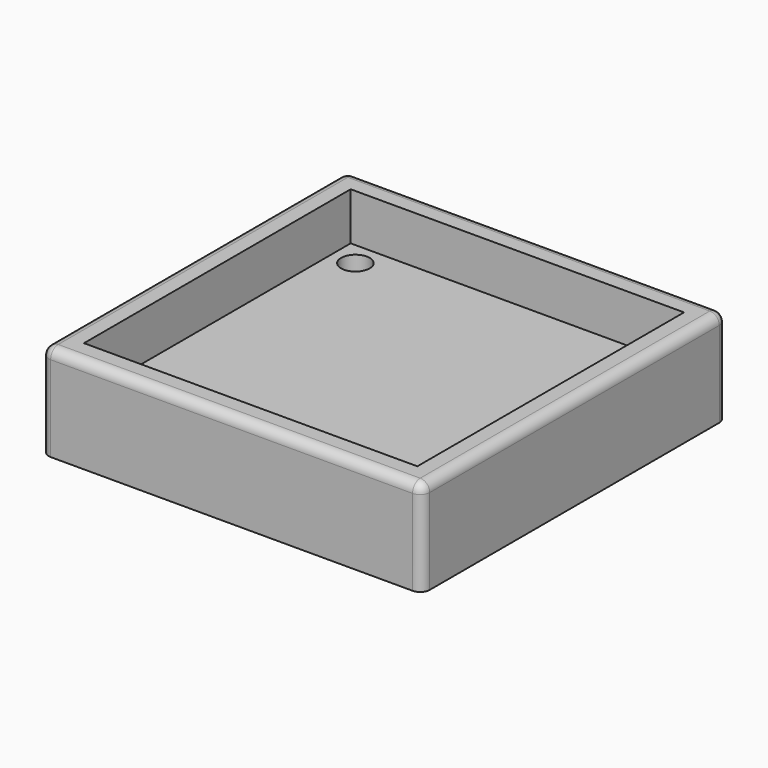
from build123d import *

# Parameters (mm, degrees)
SKETCH_W     = 40
SKETCH_H     = 40
PAD_DEPTH    = 10
SKETCH001_W  = 35
SKETCH001_H  = 35
POCKET_DEPTH = 5
FILLET_R     = 1
FILLET001_R  = 1
FILLET002_R  = 1
FILLET003_R  = 1
FILLET004_R  = 1
SKETCH002_R  = 1.5
HOLE_DEPTH   = 25


with BuildPart() as part:
    # Sketch → Pad (new body)
    with BuildSketch(Plane.XY):
        Rectangle(SKETCH_W, SKETCH_H)
    extrude(amount=PAD_DEPTH)

    # Sketch001 (on Face6 of Pad) → Pocket (cut)
    with BuildSketch(Plane.XY.offset(10)):
        Rectangle(SKETCH001_W, SKETCH001_H)
    extrude(amount=-POCKET_DEPTH, mode=Mode.SUBTRACT)

    # Fillet
    fillet_edges = [part.edges().sort_by_distance(p)[0] for p in [
        (-20, -20, 5),
    ]]
    fillet(fillet_edges, radius=FILLET_R)

    # Fillet001
    fillet001_edges = [part.edges().sort_by_distance(p)[0] for p in [
        (20, -20, 5),
    ]]
    fillet(fillet001_edges, radius=FILLET001_R)

    # Fillet002
    fillet002_edges = [part.edges().sort_by_distance(p)[0] for p in [
        (20, 20, 5),
    ]]
    fillet(fillet002_edges, radius=FILLET002_R)

    # Fillet003
    fillet003_edges = [part.edges().sort_by_distance(p)[0] for p in [
        (-20, 20, 5),
    ]]
    fillet(fillet003_edges, radius=FILLET003_R)

    # Fillet004
    fillet004_edges = [part.edges().sort_by_distance(p)[0] for p in [
        (-20, 0, 10),
    ]]
    fillet(fillet004_edges, radius=FILLET004_R)

    # Sketch002 (on Face23 of Fillet004) → Hole (cut)
    with BuildSketch(Plane.XY.offset(5)):
        with Locations((-15, 15)):
            Circle(SKETCH002_R)
        with Locations((15, 15)):
            Circle(SKETCH002_R)
        with Locations((-15, -15)):
            Circle(SKETCH002_R)
        with Locations((15, -15)):
            Circle(SKETCH002_R)
    extrude(amount=-HOLE_DEPTH, mode=Mode.SUBTRACT)


solid = part.part
